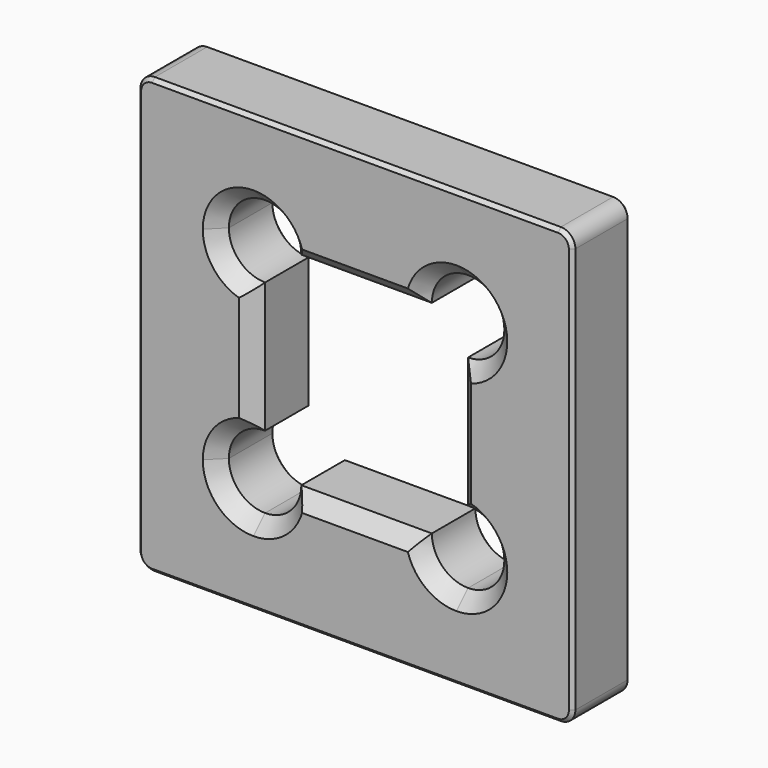
from build123d import *

# Parameters (mm, degrees)
F1_DEPTH = 25.4
F2_SIZE  = 5.08
F3_R     = 5.08
F4_SIZE  = 1.27


with BuildPart() as f1:
    # F0 (on Front) → F1 (new body)
    with BuildSketch(Plane.XZ):
        with BuildLine():
            Line((-31.3017520181, 76.2), (-71.9417520181, 76.2))
            Line((-71.9417520181, 76.2), (-71.9417520181, 35.56))
            Line((-71.9417520181, 35.56), (-44.0017520181, 35.56))
            ThreePointArc((-44.0017520181, 35.56), (-40.2820081392, 44.5402561211), (-31.3017520181, 48.26))
            Line((-31.3017520181, 48.26), (-31.3017520181, 76.2))
        make_face()
        with BuildLine():
            Line((80.4582479819, 76.2), (-31.3017520181, 76.2))
            Line((-31.3017520181, 76.2), (-31.3017520181, 48.26))
            ThreePointArc((-31.3017520181, 48.26), (-22.3214958971, 44.5402561211), (-18.6017520181, 35.56))
            Line((-18.6017520181, 35.56), (27.1226329476, 35.56))
            ThreePointArc((27.1226329476, 35.56), (30.8423768265, 44.5402561211), (39.8226329476, 48.26))
            ThreePointArc((39.8226329476, 48.26), (48.8028890686, 44.5402561211), (52.5226329476, 35.56))
            Line((52.5226329476, 35.56), (80.4582479819, 35.56))
            Line((80.4582479819, 35.56), (80.4582479819, 76.2))
        make_face()
        with BuildLine():
            Line((-44.0017520181, 35.56), (-71.9417520181, 35.56))
            Line((-71.9417520181, 35.56), (-71.9417520181, -35.56))
            Line((-71.9417520181, -35.56), (-44.0017520181, -35.56))
            ThreePointArc((-44.0017520181, -35.56), (-40.2820081392, -26.5797438789), (-31.3017520181, -22.86))
            Line((-31.3017520181, -22.86), (-31.3017520181, 22.86))
            ThreePointArc((-31.3017520181, 22.86), (-40.2820081392, 26.5797438789), (-44.0017520181, 35.56))
        make_face()
        with BuildLine():
            Line((-44.0017520181, -35.56), (-71.9417520181, -35.56))
            Line((-71.9417520181, -35.56), (-71.9417520181, -76.2))
            Line((-71.9417520181, -76.2), (-31.3017520181, -76.2))
            Line((-31.3017520181, -76.2), (-31.3017520181, -48.26))
            ThreePointArc((-31.3017520181, -48.26), (-40.2820081392, -44.5402561211), (-44.0017520181, -35.56))
        make_face()
        with BuildLine():
            Line((80.4582479819, -35.56), (80.4582479819, 35.56))
            Line((80.4582479819, 35.56), (52.5226329476, 35.56))
            ThreePointArc((52.5226329476, 35.56), (48.8028890686, 26.5797438789), (39.8226329476, 22.86))
            Line((39.8226329476, 22.86), (39.8226329476, -22.86))
            ThreePointArc((39.8226329476, -22.86), (48.8028890686, -26.5797438789), (52.5226329476, -35.56))
            Line((52.5226329476, -35.56), (80.4582479819, -35.56))
        make_face()
        with BuildLine():
            Line((80.4582479819, -76.2), (80.4582479819, -35.56))
            Line((80.4582479819, -35.56), (52.5226329476, -35.56))
            ThreePointArc((52.5226329476, -35.56), (48.8028890686, -44.5402561211), (39.8226329476, -48.26))
            Line((39.8226329476, -48.26), (39.8226329476, -76.2))
            Line((39.8226329476, -76.2), (80.4582479819, -76.2))
        make_face()
        with BuildLine():
            Line((-31.3017520181, -48.26), (-31.3017520181, -76.2))
            Line((-31.3017520181, -76.2), (39.8226329476, -76.2))
            Line((39.8226329476, -76.2), (39.8226329476, -48.26))
            ThreePointArc((39.8226329476, -48.26), (30.8423768265, -44.5402561211), (27.1226329476, -35.56))
            Line((27.1226329476, -35.56), (-18.6017520181, -35.56))
            ThreePointArc((-18.6017520181, -35.56), (-22.3214958971, -44.5402561211), (-31.3017520181, -48.26))
        make_face()
    extrude(amount=F1_DEPTH)

    # F2
    f2_edges = [f1.edges().sort_by_distance(p)[0] for p in [
        (39.822633, -25.4, 0),
        (4.26044, -25.4, 35.56),
        (4.26044, -25.4, -35.56),
        (48.802889, -25.4, 44.540256),
        (48.802889, -25.4, -44.540256),
        (-40.282008, -25.4, -44.540256),
        (-31.301752, -25.4, 0),
        (-40.282008, -25.4, 44.540256),
    ]]
    chamfer(f2_edges, length=F2_SIZE)

    # F3
    f3_edges = [f1.edges().sort_by_distance(p)[0] for p in [
        (80.458248, -12.7, 76.2),
        (80.458248, -12.7, -76.2),
        (-71.941752, -12.7, -76.2),
        (-71.941752, -12.7, 76.2),
    ]]
    fillet(f3_edges, radius=F3_R)

    # F4
    f4_edges = [f1.edges().sort_by_distance(p)[0] for p in [
        (4.258248, -25.4, 76.2),
        (-71.941752, 0, 0),
        (4.26044, 0, 35.56),
        (-40.282008, 0, 44.540256),
        (-31.301752, 0, 0),
        (39.822633, 0, 0),
        (48.802889, 0, 44.540256),
        (4.26044, 0, -35.56),
        (-40.282008, 0, -44.540256),
        (48.802889, 0, -44.540256),
    ]]
    chamfer(f4_edges, length=F4_SIZE)


solid = f1.part
